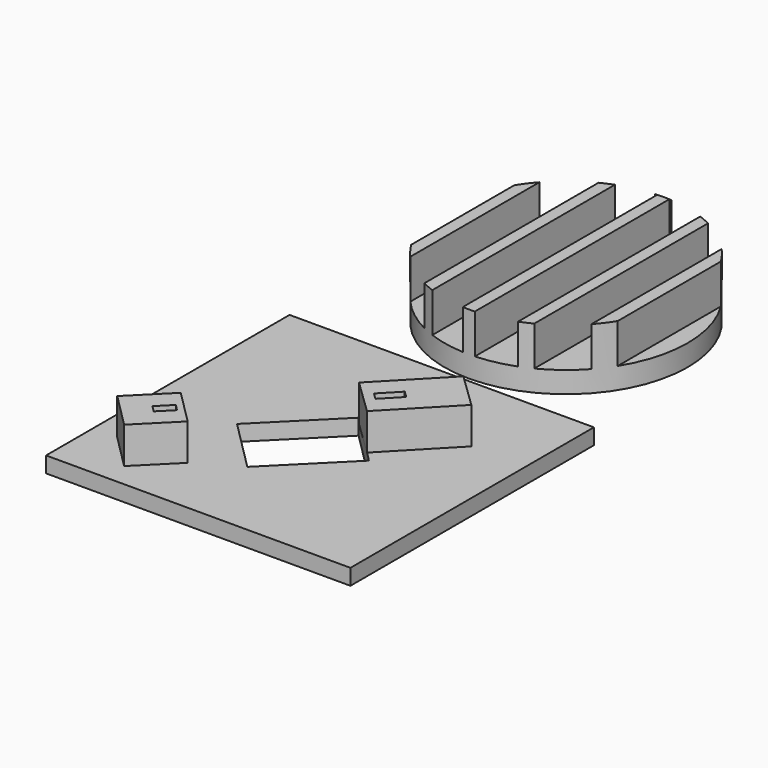
from build123d import *

# Parameters (mm, degrees)
SKETCH006_AS_DRAWN_W                      = 1.464365
SKETCH006_AS_DRAWN_H                      = 3.015419
EXTRUDE003_DEPTH                          = 4.5
EXTRUDE003_DEPTH_BACK                     = 2
EXTRUDE003_ONTO_SKETCH006_PLACEMENT_ANGLE = 135
BOX003_W                                  = 8
BOX003_H                                  = 8.2
BOX003_DEPTH                              = 6
BOX003_PLACEMENT_ANGLE                    = 135
BOX005_W                                  = 15.7
BOX005_H                                  = 12
BOX005_DEPTH                              = 2.6
BOX005_PLACEMENT_ANGLE                    = 45
BOX_W                                     = 50
BOX_H                                     = 50
BOX_DEPTH                                 = 2.6
SKETCH005_AS_DRAWN_W                      = 1.499127
SKETCH005_AS_DRAWN_H                      = 3.983619
EXTRUDE002_DEPTH                          = 4.5
EXTRUDE002_DEPTH_BACK                     = 1
EXTRUDE002_ONTO_SKETCH005_PLACEMENT_ANGLE = 136
BOX004_W                                  = 8
BOX004_H                                  = 13.5
BOX004_DEPTH                              = 6
BOX004_PLACEMENT_ANGLE                    = 136
SKETCH002_R                               = 2.55
EXTRUDE001_DEPTH                          = 6
SKETCH001_W                               = 6.088268
SKETCH001_H                               = 40.072169
SKETCH001_W_2                             = 5.82251
SKETCH001_H_2                             = 40.037997
SKETCH001_W_3                             = 5.991463
SKETCH001_H_3                             = 40.081202
SKETCH001_W_4                             = 6.008479
SKETCH001_H_4                             = 40.030346
SKETCH001_W_5                             = 4.054681
SKETCH001_H_5                             = 40.167569
EXTRUDE_DEPTH                             = 6.5
CYLINDER001_R                             = 20
CYLINDER001_DEPTH                         = 10
CUT001_PLACEMENT_ANGLE                    = 180


with BuildPart() as extrude003:
    # Sketch006 as drawn → Extrude003 (new, two sides)
    with BuildSketch(Plane.XY) as extrude003_sk:
        with Locations((3.985229, 2.511082)):
            Rectangle(SKETCH006_AS_DRAWN_W, SKETCH006_AS_DRAWN_H)
    extrude(amount=EXTRUDE003_DEPTH)
    extrude(extrude003_sk.sketch, amount=-EXTRUDE003_DEPTH_BACK)


with BuildPart() as extrude003_1:
    # Extrude003 onto Sketch006 placement: moved
    add(extrude003.part.moved(Location((15.55, 9.66, 14.79))).rotate(Axis((15.55, 9.66, 14.79), (0, 0, 1)), EXTRUDE003_ONTO_SKETCH006_PLACEMENT_ANGLE))


with BuildPart() as extrude003_2:
    # Extrude003 placement: moved
    add(extrude003_1.part.moved(Location((0, 0, -4.5))))


with BuildPart() as cut004:
    # Box003 → Box003 (new body)
    with BuildSketch(Plane.XY):
        with Locations((4, 4.1)):
            Rectangle(BOX003_W, BOX003_H)
    extrude(amount=BOX003_DEPTH)


with BuildPart() as cut004_1:
    # Box003 placement: moved
    add(cut004.part.moved(Location((15.55, 9.66, 8.79))).rotate(Axis((15.55, 9.66, 8.79), (0, 0, 1)), BOX003_PLACEMENT_ANGLE))

    # Cut004: cut Extrude003
    add(extrude003_2.part, mode=Mode.SUBTRACT)


with BuildPart() as cut004_2:
    # Cut004 placement: moved
    add(cut004_1.part.moved(Location((-0.08085, 0.07824, -6.2))))


with BuildPart() as cube005:
    # Box005 → Box005 (new body)
    with BuildSketch(Plane.XY):
        with Locations((7.85, 6)):
            Rectangle(BOX005_W, BOX005_H)
    extrude(amount=BOX005_DEPTH)


with BuildPart() as cube005_1:
    # Box005 placement: moved
    add(cube005.part.moved(Location((22.146447, 13.646447, 0))).rotate(Axis((22.146447, 13.646447, 0), (0, 0, 1)), BOX005_PLACEMENT_ANGLE))


with BuildPart() as cut:
    # Box → Box (new body)
    with BuildSketch(Plane.XY):
        with Locations((25, 25)):
            Rectangle(BOX_W, BOX_H)
    extrude(amount=BOX_DEPTH)

    # Cut: cut Cube005
    add(cube005_1.part, mode=Mode.SUBTRACT)


with BuildPart() as extrude002:
    # Sketch005 as drawn → Extrude002 (new, two sides)
    with BuildSketch(Plane.XY) as extrude002_sk:
        with Locations((4.002213, 9.994158)):
            Rectangle(SKETCH005_AS_DRAWN_W, SKETCH005_AS_DRAWN_H)
    extrude(amount=EXTRUDE002_DEPTH)
    extrude(extrude002_sk.sketch, amount=-EXTRUDE002_DEPTH_BACK)


with BuildPart() as extrude002_1:
    # Extrude002 onto Sketch005 placement: moved
    add(extrude002.part.moved(Location((47.02, 42.01, 14.32))).rotate(Axis((47.02, 42.01, 14.32), (0, 0, 1)), EXTRUDE002_ONTO_SKETCH005_PLACEMENT_ANGLE))


with BuildPart() as extrude002_2:
    # Extrude002 placement: moved
    add(extrude002_1.part.moved(Location((0, 0, -4.5))))


with BuildPart() as fusion:
    # Box004 → Box004 (new body)
    with BuildSketch(Plane.XY):
        with Locations((4, 6.75)):
            Rectangle(BOX004_W, BOX004_H)
    extrude(amount=BOX004_DEPTH)


with BuildPart() as fusion_1:
    # Box004 placement: moved
    add(fusion.part.moved(Location((47.02, 42.01, 8.32))).rotate(Axis((47.02, 42.01, 8.32), (0, 0, 1)), BOX004_PLACEMENT_ANGLE))

    # Cut003: cut Extrude002
    add(extrude002_2.part, mode=Mode.SUBTRACT)


with BuildPart() as fusion_2:
    # Cut003 placement: moved
    add(fusion_1.part.moved(Location((-5.96, -6, -5.7))))

    # Fusion: union Cut004, Cut
    add(cut004_2.part)
    add(cut.part)


with BuildPart() as extrude001:
    # Sketch002 → Extrude001 (new body)
    with BuildSketch(Plane.XY):
        with Locations((25.84182, 74.524612)):
            Circle(SKETCH002_R)
    extrude(amount=EXTRUDE001_DEPTH)


with BuildPart() as extrude001_1:
    # Extrude001 placement: moved
    add(extrude001.part.moved(Location((0, 0, -2.75))))


with BuildPart() as extrude_body:
    # Sketch001 (on Cylinder) → Extrude (new body)
    with BuildSketch(Plane(origin=(25.88, -24.43, 1.58), x_dir=(1, 0, 0), z_dir=(0, 0, 1))):
        with Locations((4.04194, 0.082084)):
            Rectangle(SKETCH001_W, SKETCH001_H)
        with Locations((11.963658, 0.064998)):
            Rectangle(SKETCH001_W_2, SKETCH001_H_2)
        with Locations((-3.979312, 0.086601)):
            Rectangle(SKETCH001_W_3, SKETCH001_H_3)
        with Locations((-11.967384, 0.061173)):
            Rectangle(SKETCH001_W_4, SKETCH001_H_4)
        with Locations((18.991761, 0.072897)):
            Rectangle(SKETCH001_W_5, SKETCH001_H_5)
        Polygon((-16.965232, 20.07192), (-16.965232, -19.971802), (-20.883258, -19.971802), (-20.883258, 19.991599), align=None)
    extrude(amount=EXTRUDE_DEPTH)


with BuildPart() as cut005:
    # Cylinder001 → Cylinder001 (new body)
    with BuildSketch(Plane(origin=(25.88, -24.43, 1.58), x_dir=(1, 0, 0), z_dir=(0, 0, 1))):
        Circle(CYLINDER001_R)
    extrude(amount=CYLINDER001_DEPTH)

    # Cut001: cut Extrude body
    add(extrude_body.part, mode=Mode.SUBTRACT)


with BuildPart() as cut005_1:
    # Cut001 placement: moved
    add(cut005.part.moved(Location((0, 50, 12))).rotate(Axis((0, 50, 12), (1, 0, 0)), CUT001_PLACEMENT_ANGLE))

    # Cut005: cut Extrude001
    add(extrude001_1.part, mode=Mode.SUBTRACT)


with BuildPart() as cut005_2:
    # Cut005 placement: moved
    add(cut005_1.part.moved(Location((0, 0, -0.4))))


solid = Compound([fusion_2.part, cut005_2.part])
